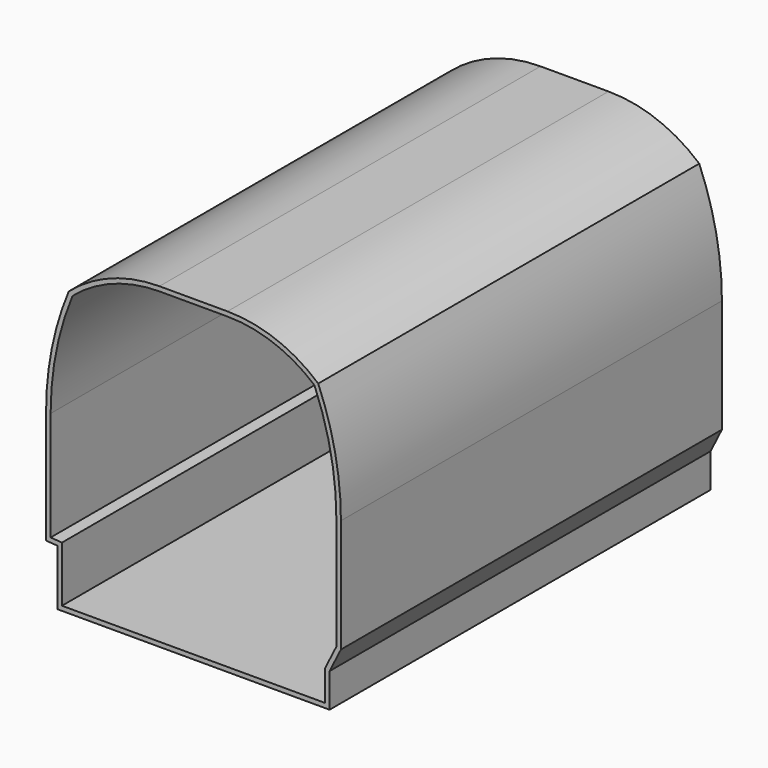
from build123d import *

# Parameters (mm, degrees)
F1_DEPTH = 2100
F2_T     = -20


with BuildPart() as f1:
    # F0 (on Front) → F1 (new body)
    with BuildSketch(Plane.XZ):
        with BuildLine():
            Line((-600, 246.4962048714), (-600, 0))
            Line((-600, 0), (600, 0))
            Line((600, 0), (600, 150))
            Line((600, 150), (650, 250))
            Line((650, 250), (650, 750))
            ThreePointArc((650, 750), (624.7548783982, 1004.9509756796), (550, 1250))
            ThreePointArc((550, 1250), (363.6000936329, 1361.2669163545), (150, 1400))
            Line((150, 1400), (-150, 1400))
            ThreePointArc((-150, 1400), (-363.6000936329, 1361.2669163545), (-550, 1250))
            ThreePointArc((-550, 1250), (-624.7548783982, 1004.9509756796), (-650, 750))
            Line((-650, 750), (-650, 250))
            Line((-650, 250), (-600, 246.4962048714))
        make_face()
    extrude(amount=F1_DEPTH)

    # F2
    f2_openings = [f1.faces().sort_by_distance(p)[0] for p in [
        (0.87664, -2100, 673.839556),
    ]]
    offset(amount=F2_T, openings=f2_openings, kind=Kind.INTERSECTION)


solid = f1.part
